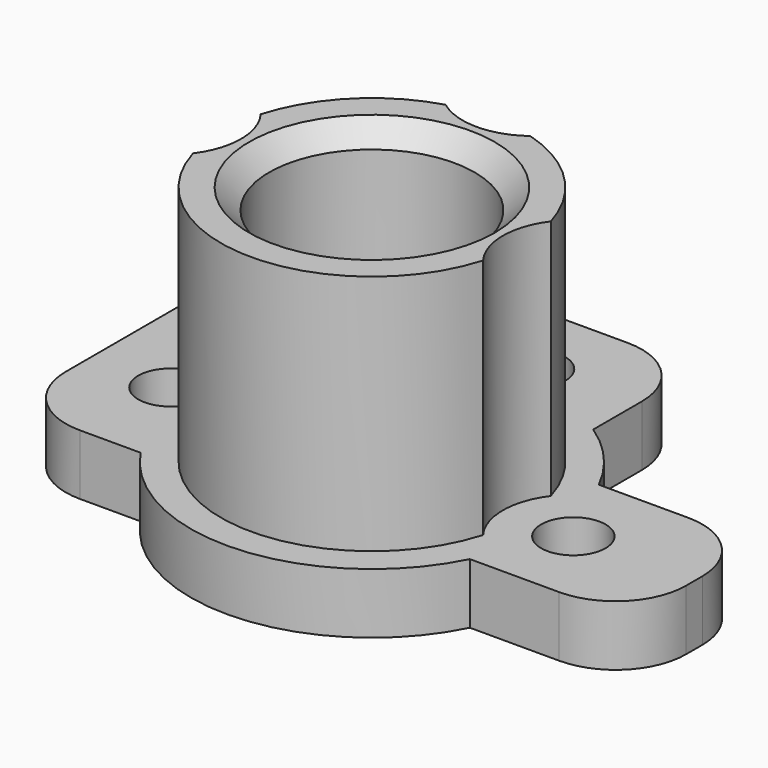
from build123d import *

# Parameters (mm, degrees)
SKETCH_R        = 9
SKETCH_R_2      = 1.6
PAD_DEPTH       = 3
SKETCH001_R     = 7.5
SKETCH001_R_2   = 5.1
PAD001_DEPTH    = 12
SKETCH002_W     = 19
SKETCH002_H     = 19
PAD002_DEPTH    = 3
SKETCH003_R     = 1.6
POCKET_DEPTH    = 3.001
SKETCH004_W     = 11
SKETCH004_H     = 8
PAD003_DEPTH    = 3
FILLET_R        = 3.5
SKETCH005_R     = 1.6
POCKET001_DEPTH = 3.001
SKETCH006_R     = 3.5
POCKET002_DEPTH = 12.001
CHAMFER_SIZE    = 1


with BuildPart() as part:
    # Sketch → Pad (new body)
    with BuildSketch(Plane.XY):
        Circle(SKETCH_R)
        Circle(SKETCH_R_2, mode=Mode.SUBTRACT)
    extrude(amount=PAD_DEPTH)

    # Sketch001 (on Face4 of Pad) → Pad001 (join)
    with BuildSketch(Plane.XY.offset(3)):
        Circle(SKETCH001_R)
        Circle(SKETCH001_R_2, mode=Mode.SUBTRACT)
    extrude(amount=PAD001_DEPTH)

    # Sketch002 (on Face2 of Pad001) → Pad002 (join)
    with BuildSketch(Plane(origin=(0, 0, 0), x_dir=(1, 0, 0), z_dir=(0, 0, -1))):
        with Locations((-4.5, -4.5)):
            Rectangle(SKETCH002_W, SKETCH002_H)
    extrude(amount=-PAD002_DEPTH)

    # Sketch003 (on Face10 of Pad002) → Pocket (cut, through all)
    with BuildSketch(Plane.XY.offset(3)):
        Circle(SKETCH003_R)
    extrude(amount=-POCKET_DEPTH, mode=Mode.SUBTRACT)

    # Sketch004 (on Face16 of Pocket) → Pad003 (join)
    with BuildSketch(Plane.XY.offset(3)):
        with Locations((10.5, 0)):
            Rectangle(SKETCH004_W, SKETCH004_H)
    extrude(amount=-PAD003_DEPTH)

    # Fillet
    fillet_edges = [part.edges().sort_by_distance(p)[0] for p in [
        (-14, -5, 1.5),
        (-14, 14, 1.5),
        (5, 14, 1.5),
        (16, 4, 1.5),
        (16, -4, 1.5),
    ]]
    fillet(fillet_edges, radius=FILLET_R)

    # Sketch005 (on Face24 of Fillet) → Pocket001 (cut, through all)
    with BuildSketch(Plane.XY.offset(3)):
        with Locations((0, 10)):
            Circle(SKETCH005_R)
        with Locations((-10, 0)):
            Circle(SKETCH005_R)
        with Locations((10, 0)):
            Circle(SKETCH005_R)
    extrude(amount=-POCKET001_DEPTH, mode=Mode.SUBTRACT)

    # Sketch006 (on Face9 of Pocket001) → Pocket002 (cut, through all)
    with BuildSketch(Plane.XY.offset(3)):
        with Locations((0, 10)):
            Circle(SKETCH006_R)
        with Locations((-10, 0)):
            Circle(SKETCH006_R)
        with Locations((10, 0)):
            Circle(SKETCH006_R)
    extrude(amount=POCKET002_DEPTH, mode=Mode.SUBTRACT)

    # Chamfer
    chamfer_edges = [part.edges().sort_by_distance(p)[0] for p in [
        (-5.1, 0, 15),
    ]]
    chamfer(chamfer_edges, length=CHAMFER_SIZE)


solid = part.part
